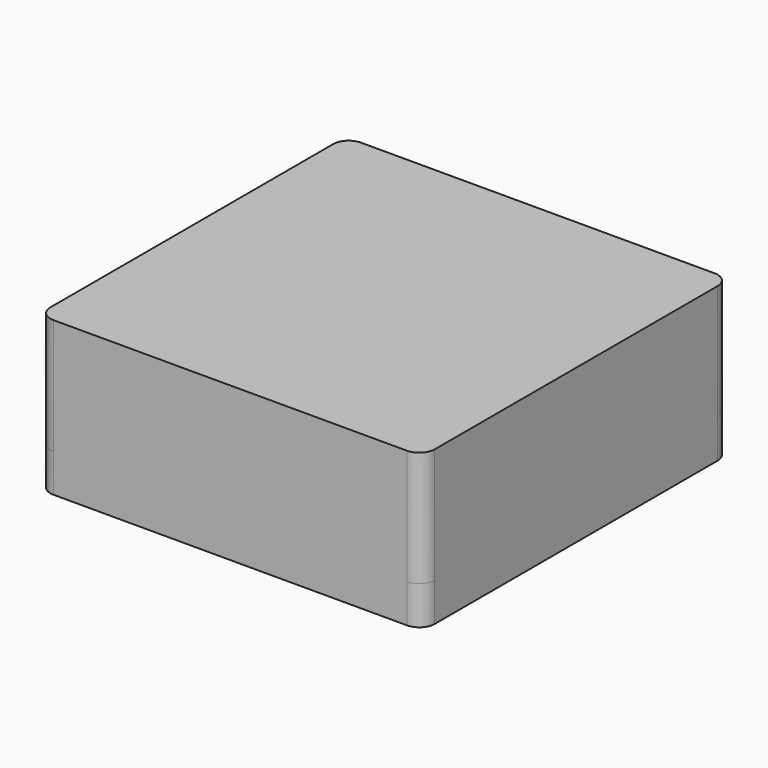
from build123d import *

# Parameters (mm, degrees)
F0_W     = 127
F0_H     = 127
F0_W_2   = 113.03
F0_H_2   = 113.03
F1_DEPTH = 38.1
F2_W     = 113.03
F2_H     = 113.03
F3_DEPTH = 12.7
F4_R     = 5.08
F5_W     = 116.84
F5_H     = 116.84
F6_DEPTH = 12.7
F7_R     = 2.54


with BuildPart() as f1:
    # F0 (on Top) → F1 (new body)
    with BuildSketch(Plane.XY):
        Rectangle(F0_W, F0_H)
        Rectangle(F0_W_2, F0_H_2, mode=Mode.SUBTRACT)
    extrude(amount=-F1_DEPTH)

    # F2 (on Top) → F3 (join)
    with BuildSketch(Plane.XY):
        Rectangle(F2_W, F2_H)
    extrude(amount=-F3_DEPTH)

    # F4
    f4_edges = [f1.edges().sort_by_distance(p)[0] for p in [
        (-63.5, -63.5, -19.05),
        (-63.5, 63.5, -19.05),
        (63.5, 63.5, -19.05),
        (63.5, -63.5, -19.05),
    ]]
    fillet(f4_edges, radius=F4_R)

    # F5 (on face) → F6 (join)
    with BuildSketch(Plane(origin=(0, 0, -38.1), x_dir=(1, 0, 0), z_dir=(0, 0, -1))):
        with BuildLine():
            ThreePointArc((63.5, 58.42), (62.012102, 62.012102), (58.42, 63.5))
            Line((58.42, 63.5), (-58.42, 63.5))
            ThreePointArc((-58.42, 63.5), (-62.012102, 62.012102), (-63.5, 58.42))
            Line((-63.5, 58.42), (-63.5, -58.42))
            ThreePointArc((-63.5, -58.42), (-62.012102, -62.012102), (-58.42, -63.5))
            Line((-58.42, -63.5), (58.42, -63.5))
            ThreePointArc((58.42, -63.5), (62.012102, -62.012102), (63.5, -58.42))
            Line((63.5, -58.42), (63.5, 58.42))
        make_face()
        Rectangle(F5_W, F5_H, mode=Mode.SUBTRACT)
    extrude(amount=F6_DEPTH)

    # F7
    f7_edges = [f1.edges().sort_by_distance(p)[0] for p in [
        (-58.42, -58.42, -44.45),
        (58.42, -58.42, -44.45),
        (58.42, 58.42, -44.45),
        (-58.42, 58.42, -44.45),
    ]]
    fillet(f7_edges, radius=F7_R)


solid = f1.part
